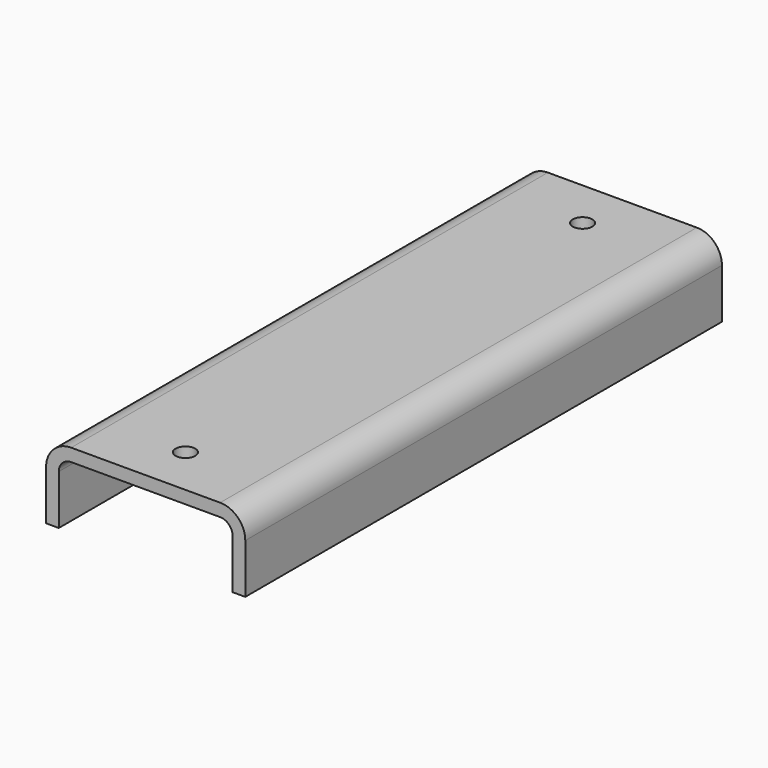
from build123d import *

# Parameters (mm, degrees)
F1_DEPTH = 38.1
F2_R     = 1.2573
F3_DEPTH = 1.6256


with BuildPart() as f1:
    # F0 (on Front) → F1 (new body, symmetric)
    with BuildSketch(Plane.XZ):
        with BuildLine():
            Line((-12.7381, 6.35), (-12.7381, 0))
            Line((-12.7381, 0), (-11.1125, 0))
            Line((-11.1125, 0), (-11.1125, 6.35))
            ThreePointArc((-11.1125, 6.35), (-10.647532, 7.472532), (-9.525, 7.9375))
            Line((-9.525, 7.9375), (9.525, 7.9375))
            ThreePointArc((9.525, 7.9375), (10.647532, 7.472532), (11.1125, 6.35))
            Line((11.1125, 6.35), (11.1125, 0))
            Line((11.1125, 0), (12.7381, 0))
            Line((12.7381, 0), (12.7381, 6.35))
            ThreePointArc((12.7381, 6.35), (11.797005, 8.622005), (9.525, 9.5631))
            Line((9.525, 9.5631), (-9.525, 9.5631))
            ThreePointArc((-9.525, 9.5631), (-11.797005, 8.622005), (-12.7381, 6.35))
        make_face()
    extrude(amount=F1_DEPTH, both=True)

    # F2 (on face) → F3 (cut, through all)
    with BuildSketch(Plane.XY.offset(9.5631)):
        with Locations((0, 31.75)):
            Circle(F2_R)
        with Locations((0, -31.75)):
            Circle(F2_R)
    extrude(amount=-F3_DEPTH, mode=Mode.SUBTRACT)


solid = f1.part
